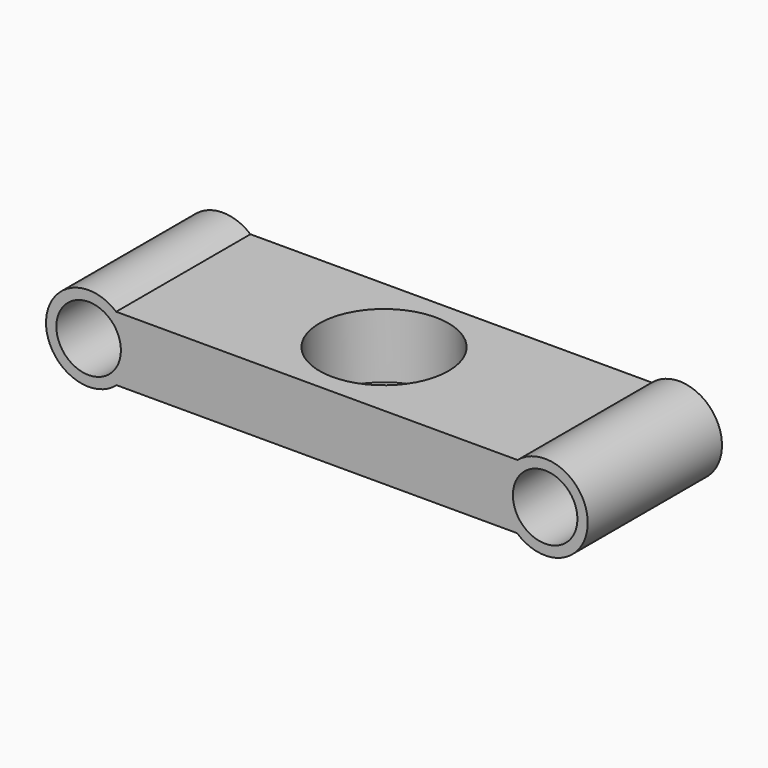
from build123d import *

# Parameters (mm, degrees)
SKETCH002_R  = 2.5
PAD002_DEPTH = 13
SKETCH_W     = 35
SKETCH_H     = 13
PAD_DEPTH    = 5
SKETCH003_R  = 3.3
PAD003_DEPTH = 13
SKETCH004_R  = 5
POCKET_DEPTH = 5


with BuildPart() as pad002:
    # Sketch002 → Pad002 (new body)
    with BuildSketch(Plane.XZ.offset(6.5)):
        with Locations((17.683945, 2.483897)):
            Circle(SKETCH002_R)
    extrude(amount=-PAD002_DEPTH)


with BuildPart() as part_mirroring001:
    # Part__Mirroring001: instance of Pad002
    add(pad002.part.mirror(Plane(origin=(0, 0, 2.483897), x_dir=(0, -1, 0), z_dir=(1, 0, 0))))


with BuildPart() as scassi:
    # Fusion001 base: copy of Pad002
    add(pad002.part)

    # Fusion001: union Part__Mirroring001
    add(part_mirroring001.part)


with BuildPart() as pocket:
    # Sketch → Pad (new body)
    with BuildSketch(Plane.XY):
        Rectangle(SKETCH_W, SKETCH_H)
    extrude(amount=PAD_DEPTH)

    # Sketch003 → Pad003 (new body)
    with BuildSketch(Plane.XZ.offset(6.5)):
        with Locations((17.683945, 2.483897)):
            Circle(SKETCH003_R)
        with Locations((-17.683945, 2.483897)):
            Circle(SKETCH003_R)
    extrude(amount=-PAD003_DEPTH)

    # Cut: cut scassi
    add(scassi.part, mode=Mode.SUBTRACT)

    # Sketch004 → Pocket (cut)
    with BuildSketch(Plane.XY.offset(5)):
        Circle(SKETCH004_R)
    extrude(amount=-POCKET_DEPTH, mode=Mode.SUBTRACT)


solid = pocket.part
